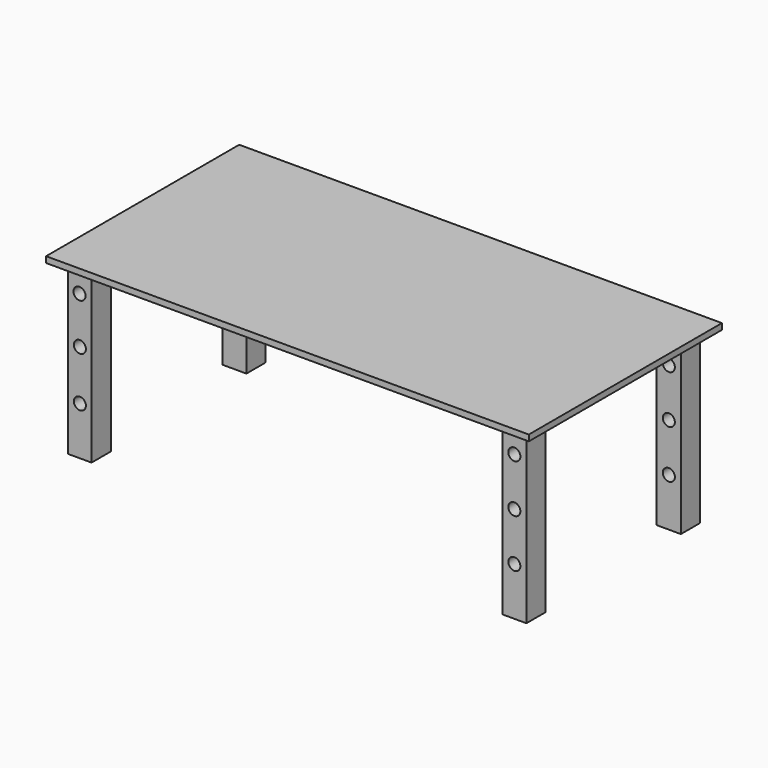
from build123d import *

# Parameters (mm, degrees)
F0_W     = 2000
F0_H     = 1000
F1_DEPTH = 25
F2_W     = 98.425484
F2_H     = 100
F3_DEPTH = 700
F4_W     = 100
F4_H     = 100
F5_DEPTH = 700
F6_W     = 100
F6_H     = 100
F7_DEPTH = 700
F8_W     = 100
F8_H     = 100
F9_DEPTH = 700
F11_D    = 50
F13_D    = 50
F15_D    = 50
F17_D    = 50
F19_D    = 50
F21_D    = 50


with BuildPart() as f1:
    # F0 (on Top) → F1 (new body)
    with BuildSketch(Plane.XY):
        with Locations((0, -62.883471)):
            Rectangle(F0_W, F0_H)
    extrude(amount=F1_DEPTH)

    # F2 (on face) → F3 (join)
    with BuildSketch(Plane(origin=(0, 0, 0), x_dir=(1, 0, 0), z_dir=(0, 0, -1))):
        with Locations((-900.787258, 462.883471)):
            Rectangle(F2_W, F2_H)
    extrude(amount=F3_DEPTH)

    # F4 (on face) → F5 (join)
    with BuildSketch(Plane(origin=(0, 0, 0), x_dir=(1, 0, 0), z_dir=(0, 0, -1))):
        with Locations((-900, -337.116529)):
            Rectangle(F4_W, F4_H)
    extrude(amount=F5_DEPTH)

    # F6 (on face) → F7 (join)
    with BuildSketch(Plane(origin=(0, 0, 0), x_dir=(1, 0, 0), z_dir=(0, 0, -1))):
        with Locations((900, -337.116529)):
            Rectangle(F6_W, F6_H)
    extrude(amount=F7_DEPTH)

    # F8 (on face) → F9 (join)
    with BuildSketch(Plane(origin=(0, 0, 0), x_dir=(1, 0, 0), z_dir=(0, 0, -1))):
        with Locations((900, 462.883471)):
            Rectangle(F8_W, F8_H)
    extrude(amount=F9_DEPTH)

    # F11 (through all)
    with Locations(Plane.XZ.offset(512.883471)):
        with Locations((-900, -500.001549)):
            Hole(F11_D / 2)

    # F13 (through all)
    with Locations(Plane.XZ.offset(512.883471)):
        with Locations((-900, -293.510616)):
            Hole(F13_D / 2)

    # F15 (through all)
    with Locations(Plane.XZ.offset(512.883471)):
        with Locations((-901.574516, -100)):
            Hole(F15_D / 2)

    # F17 (through all)
    with Locations(Plane.XZ.offset(512.883471)):
        with Locations((900, -500)):
            Hole(F17_D / 2)

    # F19 (through all)
    with Locations(Plane.XZ.offset(512.883471)):
        with Locations((900, -300)):
            Hole(F19_D / 2)

    # F21 (through all)
    with Locations(Plane.XZ.offset(512.883471)):
        with Locations((900, -100)):
            Hole(F21_D / 2)


solid = f1.part
